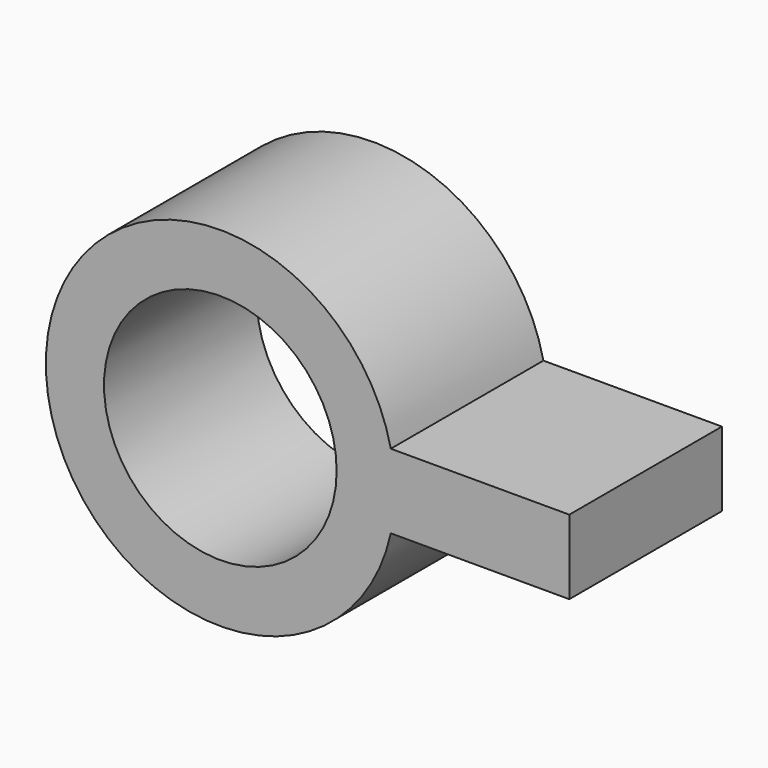
from build123d import *

# Parameters (mm, degrees)
F0_R     = 37.5
F0_R_2   = 25
F1_DEPTH = 41
F3_DEPTH = 41


with BuildPart() as f1:
    # F0 (on Front) → F1 (new body)
    with BuildSketch(Plane.XZ):
        with Locations((-37.331857, -12.628307)):
            Circle(F0_R)
        with Locations((-37.331857, -12.628307)):
            Circle(F0_R_2, mode=Mode.SUBTRACT)
    extrude(amount=F1_DEPTH)

    # F2 (on face) → F3 (join)
    with BuildSketch(Plane.XZ.offset(41)):
        with BuildLine():
            Line((37.671292, -20.628307), (37.671292, -12.628307))
            Line((37.671292, -12.628307), (37.671292, -4.628307))
            Line((37.671292, -4.628307), (-0.695127, -4.628307))
            ThreePointArc((-0.695127, -4.628307), (-0.048299, -8.605085), (0.168143, -12.628307))
            ThreePointArc((0.168143, -12.628307), (-0.048299, -16.651528), (-0.695127, -20.628307))
            Line((-0.695127, -20.628307), (37.671292, -20.628307))
        make_face()
    extrude(amount=-F3_DEPTH)


solid = f1.part
